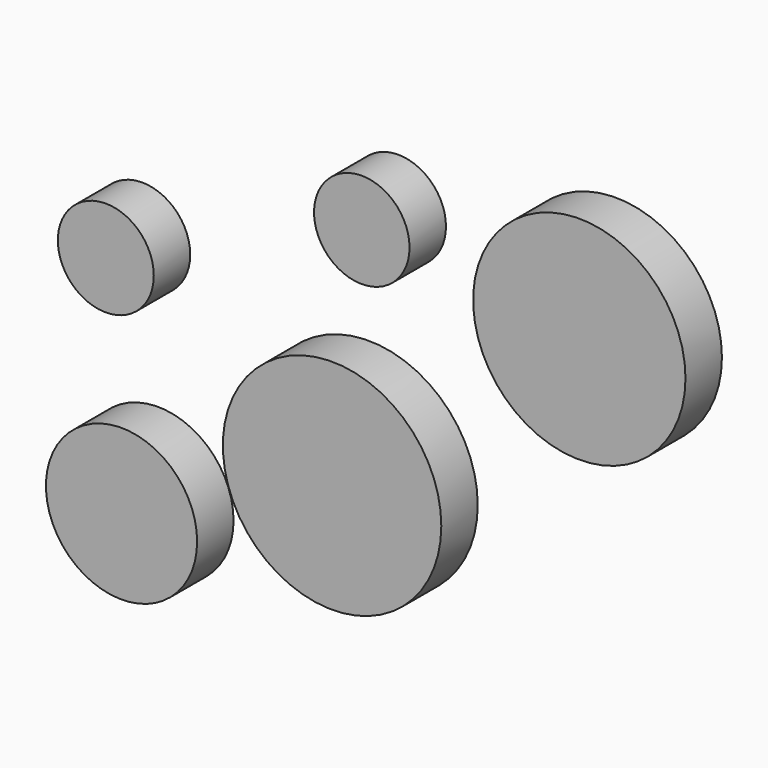
from build123d import *

# Parameters (mm, degrees)
F0_R     = 26.753461
F0_R_2   = 42.155045
F0_R_3   = 60.915573
F0_R_4   = 59.20854
F0_R_5   = 26.626221
F1_DEPTH = 25.4
F2_DEPTH = 25.4
F3_SIZE  = 5.08


with BuildPart() as f1:
    # F0 (on Front) → F1 (new body)
    with BuildSketch(Plane.XZ):
        with Locations((-115.017772, 25.771314)):
            Circle(F0_R)
        with Locations((-106.247902, -96.911483)):
            Circle(F0_R_2)
        with Locations((11.171089, -44.98855)):
            Circle(F0_R_3)
        with Locations((149.053141, 71.794651)):
            Circle(F0_R_4)
        with Locations((27.736424, 85.982323)):
            Circle(F0_R_5)
    extrude(amount=F1_DEPTH)

    # F3
    f3_edges = [f1.edges().sort_by_distance(p)[0] for p in [
        (-141.771233, -25.4, 25.771314),
        (-148.402947, -25.4, -96.911483),
        (-49.744483, -25.4, -44.98855),
        (89.844602, -25.4, 71.794651),
    ]]
    chamfer(f3_edges, length=F3_SIZE)


with BuildPart() as f2:
    # F0 (on Front) → F2 (new body)
    with BuildSketch(Plane.XZ):
        with Locations((-115.017772, 25.771314)):
            Circle(F0_R)
        with Locations((-106.247902, -96.911483)):
            Circle(F0_R_2)
        with Locations((11.171089, -44.98855)):
            Circle(F0_R_3)
        with Locations((149.053141, 71.794651)):
            Circle(F0_R_4)
        with Locations((27.736424, 85.982323)):
            Circle(F0_R_5)
    extrude(amount=F2_DEPTH)


solid = Compound([f1.part, f2.part])
